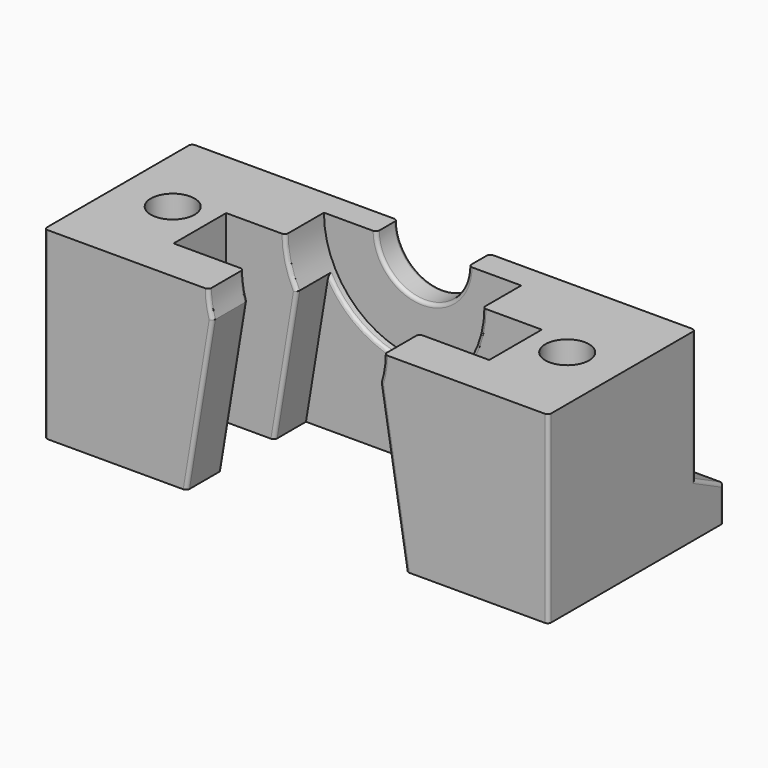
from build123d import *

# Parameters (mm, degrees)
F1_DEPTH  = 12.7
F4_DEPTH  = 3.81
F6_DEPTH  = 8.636
F8_DEPTH  = 29.211
F9_R      = 2.667
F10_DEPTH = 4.318
F12_DEPTH = 5.08
F13_R     = 1.27
F14_DEPTH = 12.7
F15_R     = 5.715
F16_DEPTH = 2.794
F17_W     = 29.21
F17_H     = 12.7
F18_DEPTH = 11.43
F19_R     = 0.2


with BuildPart() as f1:
    # F0 (on Front) → F1 (new body)
    with BuildSketch(Plane.XZ):
        Polygon((-14.605, -3.7465), (14.605, -3.7465), (14.605, 3.7465), (14.605, 18.3515), (-14.605, 18.3515), (-14.605, 3.7465), align=None)
    extrude(amount=F1_DEPTH)

    # F3 (on offset) → F4 (cut)
    with BuildSketch(Plane.XZ.offset(6.35)):
        with BuildLine():
            Line((-9.144, -3.7465), (9.144, -3.7465))
            Line((9.144, -3.7465), (9.144, 6.9215))
            ThreePointArc((9.144, 6.9215), (0, 16.0655), (-9.144, 6.9215))
            Line((-9.144, 6.9215), (-9.144, -3.7465))
        make_face()
    extrude(amount=F4_DEPTH, mode=Mode.SUBTRACT)

    # F5 (on face) → F6 (cut)
    with BuildSketch(Plane.XZ.offset(12.7)):
        with BuildLine():
            Line((6.35, -3.7465), (4.8460111432, 5.3975))
            ThreePointArc((4.8460111432, 5.3975), (0, 12.0015), (-4.8460111432, 5.3975))
            Line((-4.8460111432, 5.3975), (-6.35, -3.7465))
            Line((-6.35, -3.7465), (6.35, -3.7465))
        make_face()
    extrude(amount=-F6_DEPTH, mode=Mode.SUBTRACT)

    # F7 (on face) → F8 (cut, through all)
    with BuildSketch(Plane.YZ.offset(14.605)):
        Polygon((-2.032, -0.6985), (0, -1.7145), (0, 16.3195), (-2.032, 15.3035), align=None)
    extrude(amount=-F8_DEPTH, mode=Mode.SUBTRACT)

    # F9 (on face) → F10 (cut, through all)
    with BuildSketch(Plane(origin=(0, -2.032, 0), x_dir=(-1, 0, 0), z_dir=(0, 1, 0))):
        with Locations((0, 6.9215)):
            Circle(F9_R)
    extrude(amount=-F10_DEPTH, mode=Mode.SUBTRACT)

    # F11 (on face) → F12 (cut)
    with BuildSketch(Plane.XY.offset(18.3515)):
        with BuildLine():
            Line((14.605, -4.191), (11.43, -4.191))
            ThreePointArc((11.43, -4.191), (8.255, -7.366), (11.43, -10.541))
            Line((11.43, -10.541), (14.605, -10.541))
            Line((14.605, -10.541), (14.605, -4.191))
        make_face()
        with BuildLine():
            ThreePointArc((-11.43, -10.541), (-8.255, -7.366), (-11.43, -4.191))
            Line((-11.43, -4.191), (-14.605, -4.191))
            Line((-14.605, -4.191), (-14.605, -10.541))
            Line((-14.605, -10.541), (-11.43, -10.541))
        make_face()
    extrude(amount=-F12_DEPTH, mode=Mode.SUBTRACT)

    # F13 (on face) → F14 (cut)
    with BuildSketch(Plane.XY.offset(13.2715)):
        with Locations((11.43, -7.366)):
            Circle(F13_R)
        with Locations((-11.43, -7.366)):
            Circle(F13_R)
    extrude(amount=-F14_DEPTH, mode=Mode.SUBTRACT)

    # F15 (on face) → F16 (cut)
    with BuildSketch(Plane.XZ.offset(6.35)):
        with Locations((0, 6.9215)):
            Circle(F15_R)
    extrude(amount=-F16_DEPTH, mode=Mode.SUBTRACT)

    # F17 (on face) → F18 (cut)
    with BuildSketch(Plane.XY.offset(18.3515)):
        with Locations((0, -6.35)):
            Rectangle(F17_W, F17_H)
    extrude(amount=-F18_DEPTH, mode=Mode.SUBTRACT)

    # F19
    f19_edges = [f1.edges().sort_by_distance(p)[0] for p in [
        (14.605, -12.7, 1.5875),
        (5.021162, -12.7, 6.150571),
        (5.598006, -12.7, 0.8255),
        (5.021162, -10.16, 6.150571),
        (5.598006, -10.16, 0.8255),
        (5.543389, -6.35, 5.531512),
        (5.694431, -6.35, 0.239251),
        (-5.021162, -12.7, 6.150571),
        (-5.021162, -10.16, 6.150571),
        (-5.598006, -10.16, 0.8255),
        (-5.598006, -12.7, 0.8255),
        (-5.543389, -6.35, 5.531512),
        (-5.694431, -6.35, 0.239251),
        (0, -4.064, 1.2065),
        (0, -3.556, 4.2545),
        (0, -2.032, 4.2545),
        (14.605, -2.032, 3.1115),
        (-14.605, -2.032, 3.1115),
        (-14.605, -1.016, -1.2065),
        (-14.605, 0, -2.7305),
        (14.605, -1.016, -1.2065),
        (14.605, 0, -2.7305),
        (-14.605, -12.7, 1.5875),
    ]]
    fillet(f19_edges, radius=F19_R)


solid = f1.part
